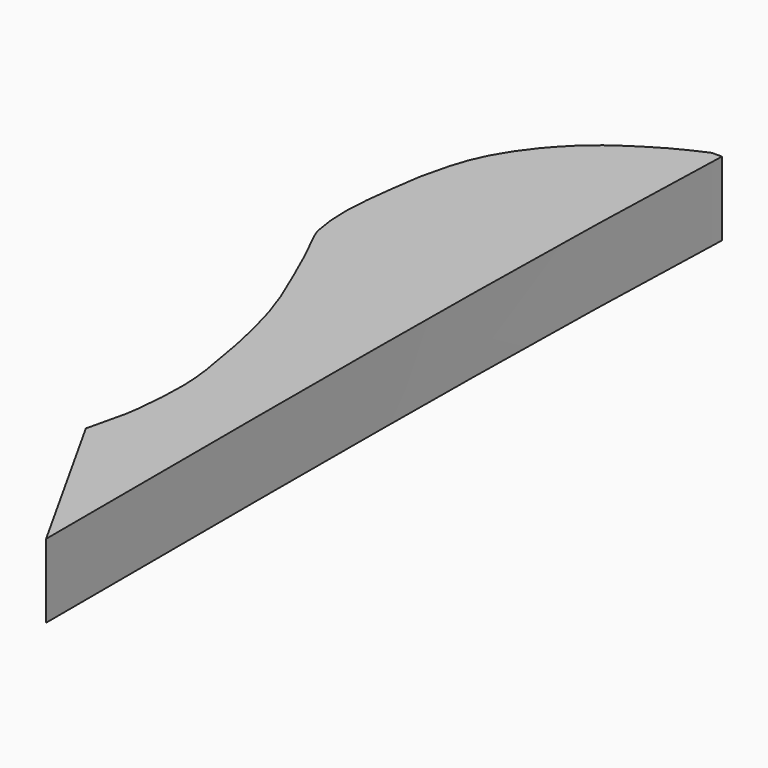
from build123d import *

# Parameters (mm, degrees)
F1_DEPTH = 2000
F2_SCALE = 0.002
F3_SCALE = 0.879
F6_DEPTH = 25


with BuildPart() as f1:
    # F0 (on Top) → F1 (new body)
    with BuildSketch(Plane.XY):
        with BuildLine():
            add(Edge.make_bspline(
                [(-412.198312, -7196.5613752), (-356.795832, -6861.2712152), (-172.67428, -6313.9113752), (-121.910856, -5861.2467992)],
                knots=[0, 0, 0, 0, 1, 1, 1, 1], degree=3))
            Line((-412.198312, -7196.5613752), (2090.874152, -11671.5049272))
            add(Edge.make_bspline(
                [(2342.598312, 11671.5049272), (2025.496584, 3887.293724), (2077.639736, -3883.8242872), (2090.874152, -11671.5049272)],
                knots=[0, 0, 0, 0, 1, 1, 1, 1], degree=3))
            Line((2342.598312, 11671.5049272), (2040.716264, 10922.0358648))
            add(Edge.make_bspline(
                [(1177.116264, 10503.6115048), (1586.7336988449, 10725.549697876), (1712.6262187958, 10774.0869522095), (2040.716264, 10922.0358648)],
                knots=[0, 0, 0, 0, 959.6269613977, 959.6269613977, 959.6269613977, 959.6269613977], degree=3))
            add(Edge.make_bspline(
                [(-383.16916, 9407.7831656), (76.333096, 9846.8536616), (629.31548, 10181.3694264), (1177.116264, 10503.6115048)],
                knots=[0, 0, 0, 0, 1, 1, 1, 1], degree=3))
            add(Edge.make_bspline(
                [(-1566.083736, 7876.5258776), (-1266.42876, 8447.6749512), (-849.490808, 8962.1962488), (-383.16916, 9407.7831656)],
                knots=[0, 0, 0, 0, 1, 1, 1, 1], degree=3))
            add(Edge.make_bspline(
                [(-2095.854584, 6214.6402504), (-1973.918328, 6783.1377672), (-1836.209688, 7361.6573112), (-1566.083736, 7876.5258776)],
                knots=[0, 0, 0, 0, 1, 1, 1, 1], degree=3))
            add(Edge.make_bspline(
                [(-2240.998312, 2963.4402504), (-2441.5702819824, 3915.4086112976), (-2303.8938045502, 4806.2567710876), (-2095.854584, 6214.6402504)],
                knots=[0, 0, 0, 0, 3254.438222148, 3254.438222148, 3254.438222148, 3254.438222148], degree=3))
            add(Edge.make_bspline(
                [(-1747.512888, 1889.3831656), (-1904.509272, 2250.753436), (-2139.109768, 2582.8419768), (-2240.998312, 2963.4402504)],
                knots=[0, 0, 0, 0, 1, 1, 1, 1], degree=3))
            add(Edge.make_bspline(
                [(-724.256616, -607.0741224), (-990.141784, 252.0658408), (-1389.155464, 1064.5218232), (-1747.512888, 1889.3831656)],
                knots=[0, 0, 0, 0, 1, 1, 1, 1], degree=3))
            add(Edge.make_bspline(
                [(-100.14204, -3517.1884952), (-250.745752, -2540.5018024), (-430.947576, -1554.8212744), (-724.256616, -607.0741224)],
                knots=[0, 0, 0, 0, 1, 1, 1, 1], degree=3))
            add(Edge.make_bspline(
                [(-121.910856, -5861.2467992), (-34.831528, -5084.7281592), (23.440136, -4318.6357112), (-100.14204, -3517.1884952)],
                knots=[0, 0, 0, 0, 1, 1, 1, 1], degree=3))
        make_face()
    extrude(amount=F1_DEPTH)


with BuildPart() as f1_1:
    # F2: moved
    add(f1.part.scale(F2_SCALE))


with BuildPart() as f1_2:
    # F3: moved
    add(f1_1.part.scale(F3_SCALE))

    # F5 (on face) → F6 (cut)
    with BuildSketch(Plane.XY.offset(3.516)):
        Polygon((3.5493720789, 20.6044446677), (3.5875791921, 19.2009390503), (4.4617429376, 19.2009390503), (4.5047998428, 20.6810384989), align=None)
    extrude(amount=-F6_DEPTH, mode=Mode.SUBTRACT)


solid = f1_2.part
